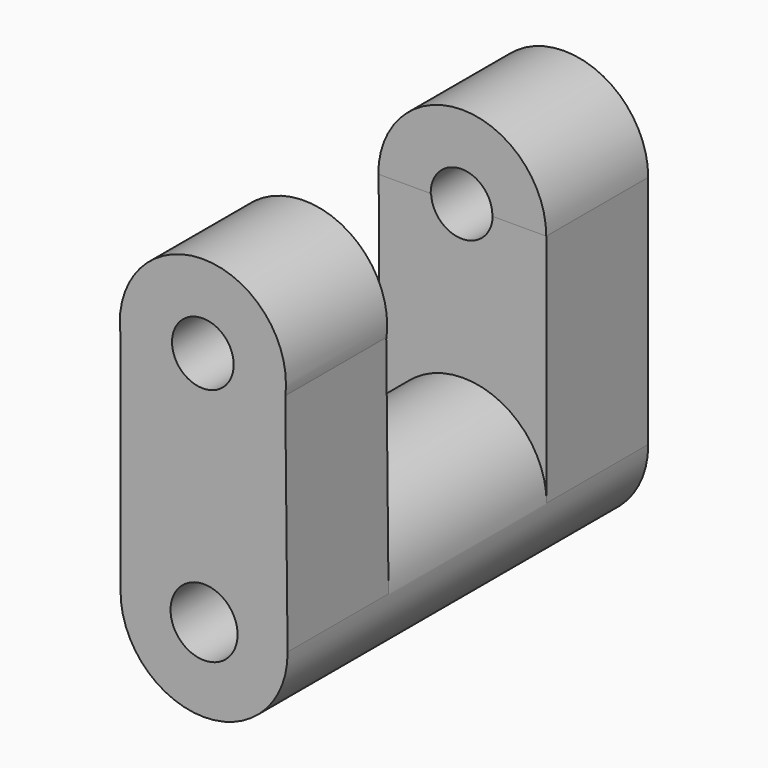
from build123d import *

# Parameters (mm, degrees)
F0_R      = 24.5736759636
F1_DEPTH  = 132.6354444027
F3_DEPTH  = 37.1311903
F5_DEPTH  = 37.3494811356
F6_R      = 24.4451738852
F7_DEPTH  = 37.2475758195
F9_DEPTH  = 37.4989584088
F10_R     = 9.0771573753
F11_DEPTH = 132.6364444027
F12_R     = 9.865321572
F13_DEPTH = 132.6364444027


with BuildPart() as f1:
    # F0 (on Front) → F1 (new body)
    with BuildSketch(Plane.XZ):
        with Locations((-8.2066878676, -21.1306065321)):
            Circle(F0_R)
    extrude(amount=-F1_DEPTH)

    # F2 (on face) → F3 (join)
    with BuildSketch(Plane.XZ):
        with BuildLine():
            ThreePointArc((-32.7796682644, -20.9457152509), (-32.7803638313, -21.1306065321), (-32.7796682644, -21.3154978133))
            Line((-32.7796682644, -21.3154978133), (-32.7796682644, -20.9457152509))
        make_face()
        with BuildLine():
            Line((-32.7796682644, 48.4050292678), (-32.7796682644, -20.9457152509))
            ThreePointArc((-32.7796682644, -20.9457152509), (-8.240472411, 3.4430462076), (16.3656912495, -20.8781488397))
            Line((16.3656912495, -20.8781488397), (15.6538728625, 48.4050292678))
            Line((15.6538728625, 48.4050292678), (-32.7796682644, 48.4050292678))
        make_face()
    extrude(amount=-F3_DEPTH)

    # F4 (on face) → F5 (join)
    with BuildSketch(Plane(origin=(0, 132.6354444027, 0), x_dir=(-1, 0, 0), z_dir=(0, 1, 0))):
        with BuildLine():
            Line((-16.3667459156, 48.1888727813), (-16.3667459156, -21.2397049542))
            ThreePointArc((-16.3667459156, -21.2397049542), (8.2016739749, 3.3337506723), (32.7801643053, -21.2296324502))
            Line((32.7801643053, -21.2296324502), (33.0599062145, 48.1888727813))
            Line((33.0599062145, 48.1888727813), (-16.3667459156, 48.1888727813))
        make_face()
    extrude(amount=-F5_DEPTH)

    # F6 (on face) → F7 (join)
    with BuildSketch(Plane.XZ):
        with Locations((-8.562897701, 48.4050292678)):
            Circle(F6_R)
    extrude(amount=-F7_DEPTH)

    # F8 (on face) → F9 (join)
    with BuildSketch(Plane(origin=(0, 132.6354444027, 0), x_dir=(-1, 0, 0), z_dir=(0, 1, 0))):
        with BuildLine():
            Line((-16.3667459156, 48.1888727813), (33.0599062145, 48.1888727813))
            ThreePointArc((33.0599062145, 48.1888727813), (8.3465801494, 72.9021988463), (-16.3667459156, 48.1888727813))
        make_face()
    extrude(amount=-F9_DEPTH)

    # F10 (on face) → F11 (cut, through all)
    with BuildSketch(Plane.XZ):
        with Locations((-8.562897701, 48.4050292678)):
            Circle(F10_R)
    extrude(amount=-F11_DEPTH, mode=Mode.SUBTRACT)

    # F12 (on face) → F13 (cut, through all)
    with BuildSketch(Plane.XZ):
        with Locations((-8.2066878676, -21.1306065321)):
            Circle(F12_R)
    extrude(amount=-F13_DEPTH, mode=Mode.SUBTRACT)


solid = f1.part
